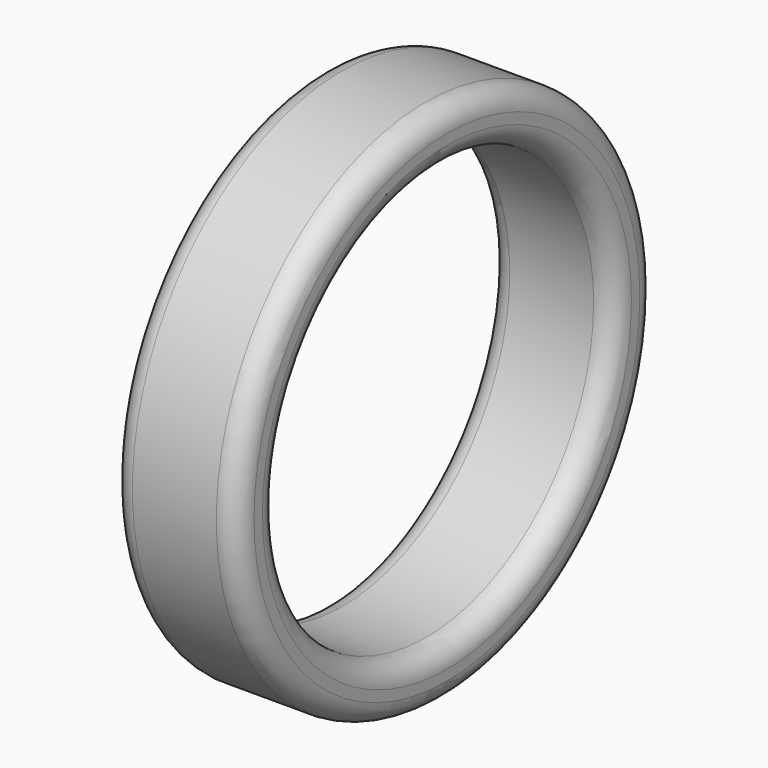
from build123d import *

# Parameters (mm, degrees)
F0_R     = 12.5
F0_R_2   = 10
F1_DEPTH = 3
F2_R     = 1


with BuildPart() as f1:
    # F0 (on Right) → F1 (new body, symmetric)
    with BuildSketch(Plane.YZ):
        Circle(F0_R)
        Circle(F0_R_2, mode=Mode.SUBTRACT)
    extrude(amount=F1_DEPTH, both=True)

    # F2
    f2_edges = [f1.edges().sort_by_distance(p)[0] for p in [
        (3, -12.5, 0),
        (3, -10, 0),
        (-3, -10, 0),
        (-3, -12.5, 0),
    ]]
    fillet(f2_edges, radius=F2_R)


solid = f1.part
